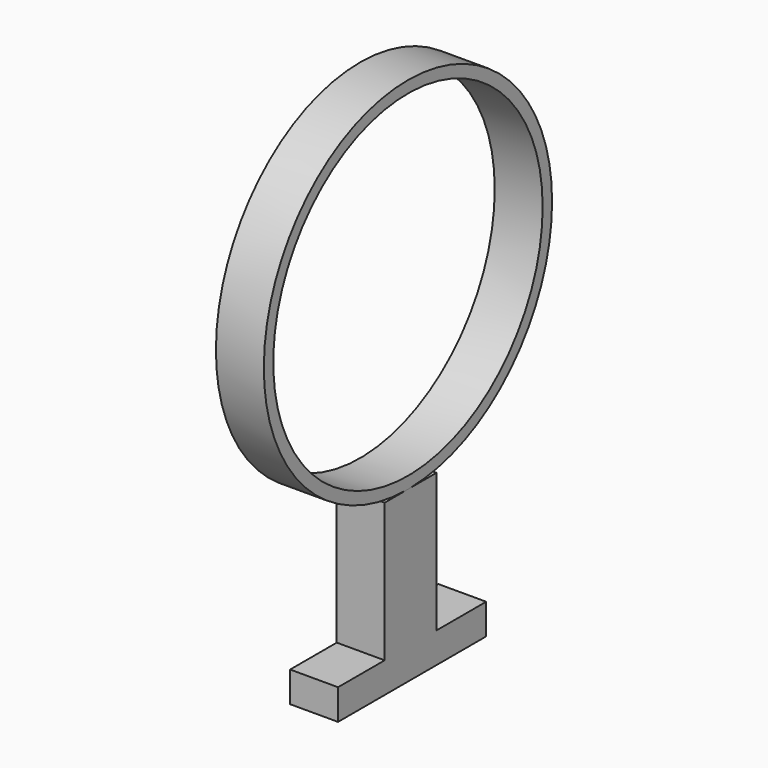
from build123d import *

# Parameters (mm, degrees)
F0_W          = 0.7400371833
F0_H          = 2.6144962758
F1_DEPTH      = 1
F3_W          = 0.7400371833
F3_H          = 0.471592648
F4_DEPTH      = 0.96
F4_DEPTH_BACK = 1.9
F5_R          = 2.5243511124
F6_DEPTH      = 0.37
F6_DEPTH_BACK = 0.37
F7_R          = 2.7819768233
F8_DEPTH      = 0.37
F9_R          = 2.6
F10_DEPTH     = 2.5


with BuildPart() as f1:
    # F0 (on Front) → F1 (new body)
    with BuildSketch(Plane.XZ):
        Rectangle(F0_W, F0_H)
    extrude(amount=F1_DEPTH)

    # F3 (on face) → F4 (join, two sides)
    with BuildSketch(Plane(origin=(0, 0, 0), x_dir=(-1, 0, 0), z_dir=(0, 1, 0))) as f4_sk:
        with Locations((0, -1.0714518139)):
            Rectangle(F3_W, F3_H)
    extrude(amount=F4_DEPTH)
    extrude(f4_sk.sketch, amount=-F4_DEPTH_BACK)

    # F5 (on Right) → F6 (cut, two sides)
    with BuildSketch(Plane.YZ) as f6_sk:
        with Locations((-0.5211759007, 3.8327652696)):
            Circle(F5_R)
    extrude(amount=-F6_DEPTH, mode=Mode.SUBTRACT)
    extrude(f6_sk.sketch, amount=F6_DEPTH_BACK, mode=Mode.SUBTRACT)

    # F7 (on Right) → F8 (join, symmetric)
    with BuildSketch(Plane.YZ):
        with Locations((-0.550427369, 4.088926369)):
            Circle(F7_R)
    extrude(amount=F8_DEPTH, both=True)

    # F9 (on face) → F10 (cut)
    with BuildSketch(Plane.YZ.offset(0.37)):
        with Locations((-0.550427369, 4.088926369)):
            Circle(F9_R)
    extrude(amount=-F10_DEPTH, mode=Mode.SUBTRACT)


solid = f1.part
